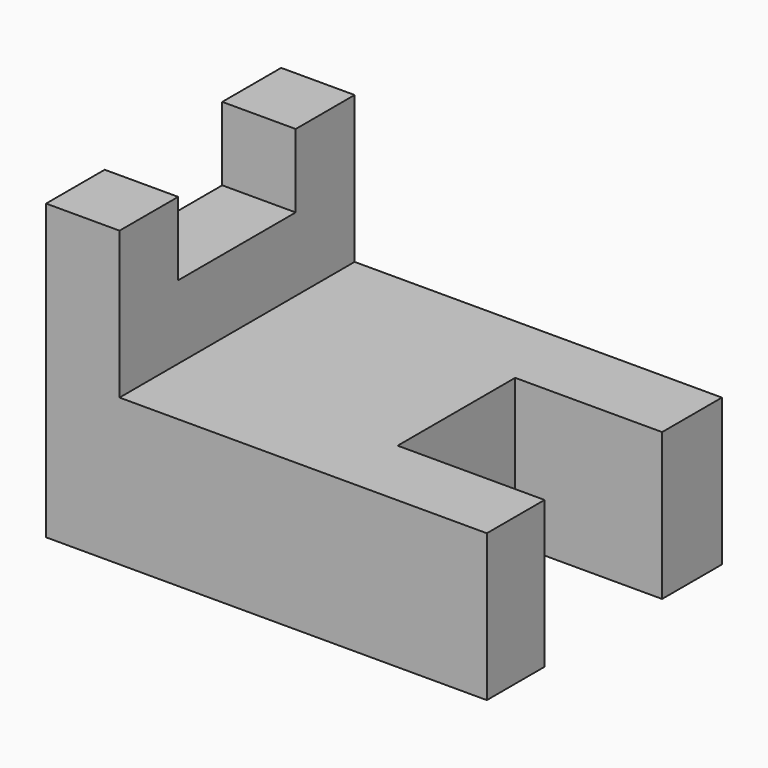
from build123d import *

# Parameters (mm, degrees)
F0_W     = 38.1
F0_H     = 25.4
F1_DEPTH = 12.7
F2_W     = 31.75
F2_H     = 12.7
F3_DEPTH = 25.401
F5_DEPTH = 12.701
F7_DEPTH = 6.35


with BuildPart() as f1:
    # F0 (on Front) → F1 (new body, symmetric)
    with BuildSketch(Plane.XZ):
        with Locations((19.05, 12.7)):
            Rectangle(F0_W, F0_H)
    extrude(amount=F1_DEPTH, both=True)

    # F2 (on face) → F3 (cut, through all)
    with BuildSketch(Plane.XZ.offset(12.7)):
        with Locations((22.225, 19.05)):
            Rectangle(F2_W, F2_H)
    extrude(amount=-F3_DEPTH, mode=Mode.SUBTRACT)

    # F4 (on face) → F5 (cut, through all)
    with BuildSketch(Plane.XY.offset(12.7)):
        Polygon((38.1, -6.4634764567), (38.1, 0), (38.1, 6.2365235433), (25.4, 6.2365235433), (25.4, -6.4634764567), align=None)
    extrude(amount=-F5_DEPTH, mode=Mode.SUBTRACT)

    # F6 (on face) → F7 (cut)
    with BuildSketch(Plane.XY.offset(25.4)):
        Polygon((0, 6.3344553716), (0, 0), (0, -6.3655446284), (6.35, -6.3655446284), (6.35, 6.3344553716), align=None)
    extrude(amount=-F7_DEPTH, mode=Mode.SUBTRACT)


solid = f1.part
